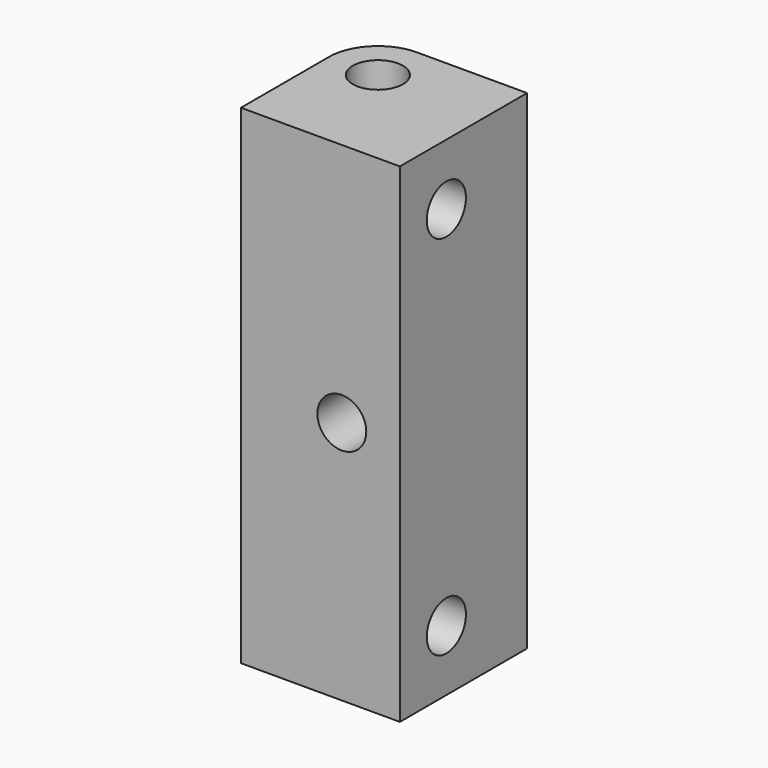
from build123d import *

# Parameters (mm, degrees)
SKETCH007_R  = 4
PAD003_DEPTH = 31
SKETCH001_R  = 4
PAD004_DEPTH = 31
PAD006_DEPTH = 4
PAD001_DEPTH = 4
SKETCH_R     = 4.1
PAD_DEPTH    = 80


with BuildPart() as rodhole01:
    # Sketch007 → Pad003 (new body)
    with BuildSketch(Plane.XZ.offset(16)):
        with Locations((3.5, 40)):
            Circle(SKETCH007_R)
    extrude(amount=-PAD003_DEPTH)


with BuildPart() as rodhole02:
    # Sketch001 → Pad004 (new body)
    with BuildSketch(Plane.YZ.offset(15.5)):
        with Locations((-3.5, 70)):
            Circle(SKETCH001_R)
        with Locations((-3.5, 10)):
            Circle(SKETCH001_R)
    extrude(amount=-PAD004_DEPTH)


with BuildPart() as obj1:
    # Sketch002 → Pad006 (new body)
    with BuildSketch(Plane.YZ.offset(-10)):
        Polygon((2.908588, 66.3), (2.908588, 73.7), (-3.5, 77.4), (-9.908588, 73.7), (-9.908588, 66.3), (-3.5, 62.6), align=None)
        Polygon((-3.5, 2.6), (2.908588, 6.3), (2.908588, 13.7), (-3.5, 17.4), (-9.908588, 13.7), (-9.908588, 6.3), align=None)
    extrude(amount=-PAD006_DEPTH)


with BuildPart() as cutblock:
    # Sketch008 → Pad001 (new body)
    with BuildSketch(Plane.XZ.offset(-9)):
        Polygon((9.908588, 36.3), (9.908588, 43.7), (3.5, 47.4), (-2.908588, 43.7), (-2.908588, 36.3), (3.5, 32.6), align=None)
    extrude(amount=-PAD001_DEPTH)

    # Fusion: union RodHole01, RodHole02, obj1
    add(rodhole01.part)
    add(rodhole02.part)
    add(obj1.part)


with BuildPart() as cut:
    # Sketch → Pad (new body)
    with BuildSketch(Plane.XY):
        with BuildLine():
            Line((-13.000011, 5.000021), (-13.000011, -13))
            Line((-13.000011, -13), (13.000011, -13))
            Line((13.000011, -13), (13.000011, 13))
            Line((13.000011, 13), (-5.00001, 13))
            ThreePointArc((-5.00001, 13), (-10.656858, 10.656862), (-13.000011, 5.000021))
        make_face()
        with Locations((-5.000011, 5)):
            Circle(SKETCH_R, mode=Mode.SUBTRACT)
    extrude(amount=PAD_DEPTH)

    # Cut: cut CutBlock
    add(cutblock.part, mode=Mode.SUBTRACT)


solid = cut.part
